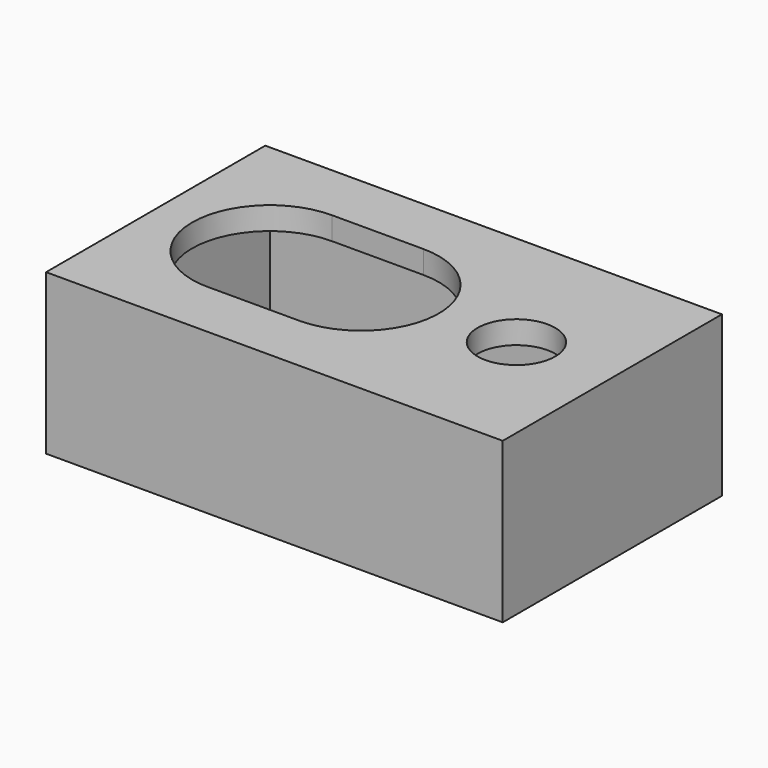
from build123d import *

# Parameters (mm, degrees)
F0_W     = 50
F0_H     = 30
F1_DEPTH = 15
F2_T     = -2.5
F3_W     = 50
F3_H     = 30
F3_R     = 4.25
F4_DEPTH = 2.5


with BuildPart() as f1:
    # F0 (on Top) → F1 (new body)
    with BuildSketch(Plane.XY):
        with Locations((-9.941086, 6.442985)):
            Rectangle(F0_W, F0_H)
    extrude(amount=F1_DEPTH)

    # F2
    f2_openings = [f1.faces().sort_by_distance(p)[0] for p in [
        (-9.941086, 6.442985, 15),
    ]]
    offset(amount=F2_T, openings=f2_openings)

    # F3 (on face) → F4 (join)
    with BuildSketch(Plane.XY.offset(15)):
        with Locations((-9.941086, 6.442985)):
            Rectangle(F3_W, F3_H)
        with BuildLine():
            ThreePointArc((-22.246402, -2.057015), (-30.941643, 6.344522), (-22.441086, 14.942985))
            Line((-22.441086, 14.942985), (-12.441086, 14.942985))
            ThreePointArc((-12.441086, 14.942985), (-3.940528, 6.539219), (-12.246402, -2.057015))
            Line((-12.246402, -2.057015), (-22.246402, -2.057015))
        make_face(mode=Mode.SUBTRACT)
        with Locations((4.558914, 6.442985)):
            Circle(F3_R, mode=Mode.SUBTRACT)
    extrude(amount=F4_DEPTH)


solid = f1.part
